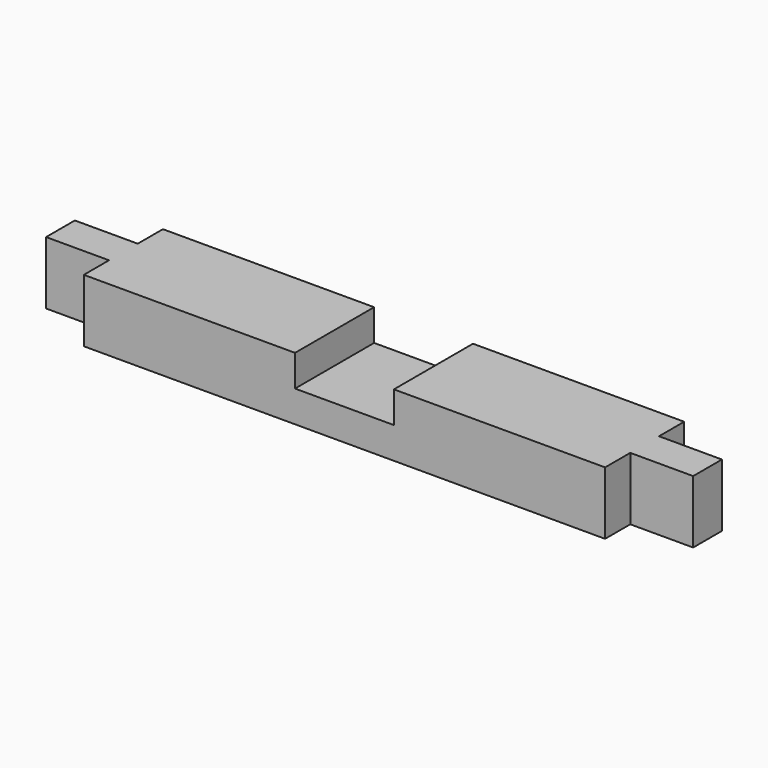
from build123d import *

# Parameters (mm, degrees)
F0_W     = 914.4
F0_H     = 139.7
F1_DEPTH = 88.9
F2_W     = 88.9
F2_H     = 44.45
F3_DEPTH = 88.9
F4_W     = 139.7
F4_H     = 44.45
F5_DEPTH = 139.7


with BuildPart() as f1:
    # F0 (on Top) → F1 (new body)
    with BuildSketch(Plane.XY):
        with Locations((457.2, 69.85)):
            Rectangle(F0_W, F0_H)
    extrude(amount=F1_DEPTH)

    # F2 (on face) → F3 (cut, through all)
    with BuildSketch(Plane.XY.offset(88.9)):
        with Locations((44.45, 117.475)):
            Rectangle(F2_W, F2_H)
        with Locations((44.45, 22.225)):
            Rectangle(F2_W, F2_H)
        with Locations((869.95, 117.475)):
            Rectangle(F2_W, F2_H)
        with Locations((869.95, 22.225)):
            Rectangle(F2_W, F2_H)
    extrude(amount=-F3_DEPTH, mode=Mode.SUBTRACT)

    # F4 (on face) → F5 (cut, through all)
    with BuildSketch(Plane.XZ):
        with Locations((457.2, 66.675)):
            Rectangle(F4_W, F4_H)
    extrude(amount=-F5_DEPTH, mode=Mode.SUBTRACT)


solid = f1.part
